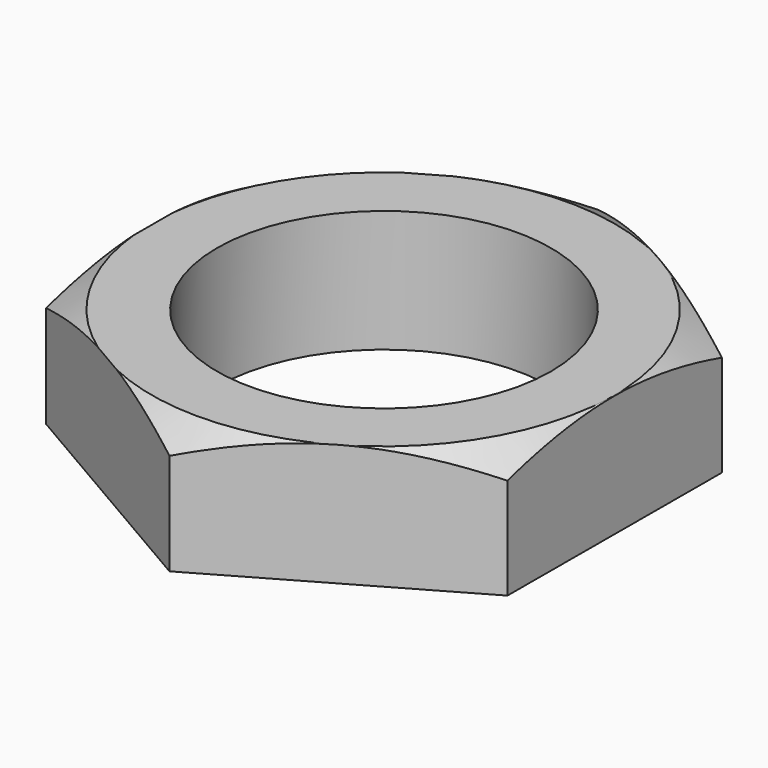
from build123d import *

# Parameters (mm, degrees)
F0_R     = 13
F1_DEPTH = 9.5


with BuildPart() as f1:
    # F0 (on Top) → F1 (new body)
    with BuildSketch(Plane.XY):
        Polygon((18.033739, 10.333647), (0.067668, 20.7845), (-17.966071, 10.450852), (-18.033739, -10.333647), (-0.067668, -20.7845), (17.966071, -10.450852), align=None)
        Circle(F0_R, mode=Mode.SUBTRACT)
    extrude(amount=F1_DEPTH)

    # F2 (on Front) → F3 (revolve, cut)
    with BuildSketch(Plane.XZ):
        Polygon((20.826552, 9.5), (17.966071, 9.5), (20.826552, 7.8485), align=None)
    revolve(axis=Axis((-0.067668, 0, 7.968986), (0, 0, 1)), mode=Mode.SUBTRACT)


solid = f1.part
